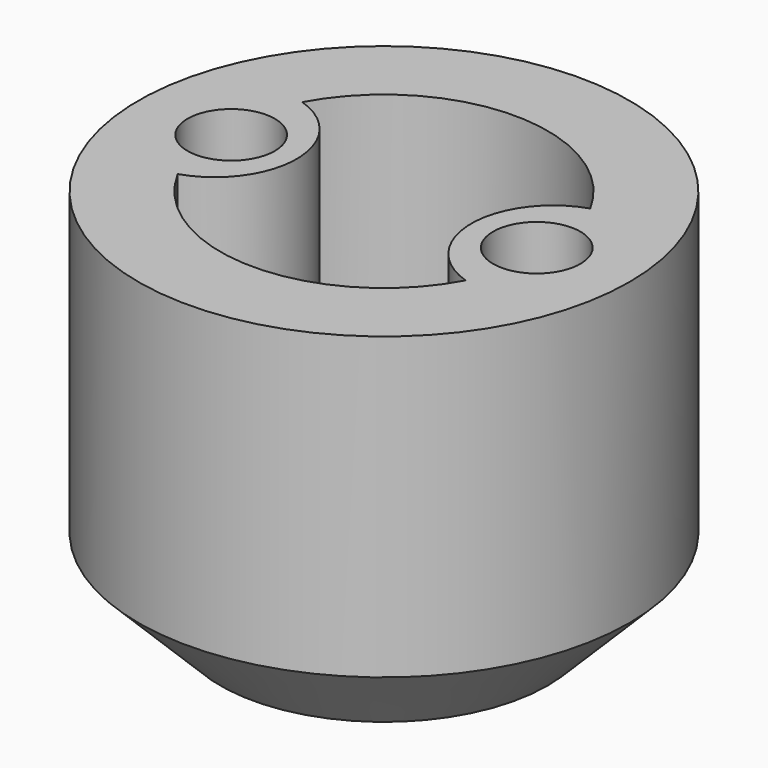
from build123d import *

# Parameters (mm, degrees)
SKETCH006_R       = 4.5
PAD002_DEPTH      = 6
PAD002_DEPTH_BACK = 1
SKETCH007_R       = 3
POCKET008_DEPTH   = 6
SKETCH008_R       = 0.8
HOLE_DEPTH        = 25
PAD005_DEPTH      = 6
SKETCH010_R       = 0.8
POCKET005_DEPTH   = 7
CHAMFER_SIZE      = 1.5


with BuildPart() as part:
    # Sketch006 → Pad002 (new body, two sides)
    with BuildSketch(Plane.XY) as pad002_sk:
        Circle(SKETCH006_R)
    extrude(amount=PAD002_DEPTH)
    extrude(pad002_sk.sketch, amount=-PAD002_DEPTH_BACK)

    # Sketch007 → Pocket008 (cut)
    with BuildSketch(Plane.XY):
        Circle(SKETCH007_R)
    extrude(amount=POCKET008_DEPTH, mode=Mode.SUBTRACT)

    # Sketch008 → Hole (cut)
    with BuildSketch(Plane.XY):
        Circle(SKETCH008_R)
    extrude(amount=-HOLE_DEPTH, mode=Mode.SUBTRACT)

    # Sketch009 → Pad005 (join)
    with BuildSketch(Plane.XY):
        with BuildLine():
            ThreePointArc((-3.1, -1.5), (-1.6, 0), (-3.1, 1.5))
            Line((-3.1, 1.5), (-3.708099, 1.5))
            ThreePointArc((-3.708099, 1.5), (-4, 0), (-3.708099, -1.5))
            Line((-3.1, -1.5), (-3.708099, -1.5))
        make_face()
    pad005 = extrude(amount=PAD005_DEPTH)

    # Sketch010 → Pocket005 (cut)
    with BuildSketch(Plane.XY):
        with Locations((-2.8, 0)):
            Circle(SKETCH010_R)
    pocket005 = extrude(amount=POCKET005_DEPTH, mode=Mode.SUBTRACT)

    # Mirrored005: Pad005, Pocket005 across Sketch009 V_Axis
    add(pad005.mirror(Plane(origin=(0, 0, 0), x_dir=(0, 0, 1), z_dir=(1, 0, 0))))
    add(pocket005.mirror(Plane(origin=(0, 0, 0), x_dir=(0, 0, 1), z_dir=(1, 0, 0))), mode=Mode.SUBTRACT)

    # Chamfer
    chamfer_edges = [part.edges().sort_by_distance(p)[0] for p in [
        (-4.5, 0, -1),
    ]]
    chamfer(chamfer_edges, length=CHAMFER_SIZE)


solid = part.part
